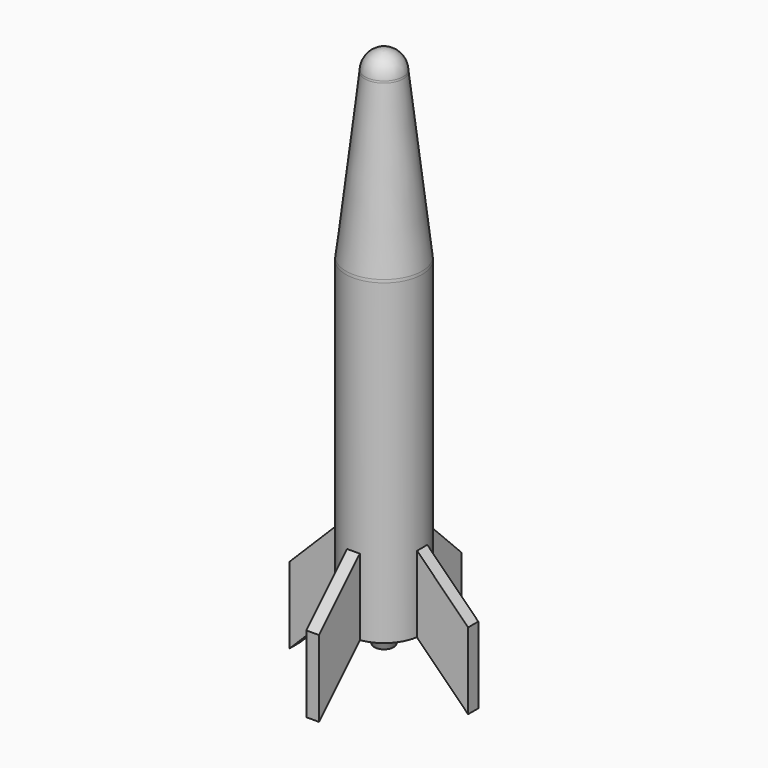
from build123d import *

# Parameters (mm, degrees)
F2_R     = 25.4
F5_DEPTH = 6.35
F6_R     = 9.525
F7_DEPTH = 25.4
F9_DEPTH = 6.35


with BuildPart() as f1:
    # F0 (on Front) → F1 (revolve)
    with BuildSketch(Plane.XZ):
        Polygon((-38.1, 0), (0, 0), (0, 330.2), (-19.05, 330.2), (-38.1, 165.1), align=None)
        with BuildLine():
            Line((-19.05, 330.2), (0, 330.2))
            Line((0, 330.2), (0, 349.25))
            ThreePointArc((0, 349.25), (-13.470384, 343.670384), (-19.05, 330.2))
        make_face()
    revolve(axis=Axis((0, 0, 165.1), (0, 0, 1)))

    # F2
    f2_edges = [f1.edges().sort_by_distance(p)[0] for p in [
        (19.05, 0, 330.2),
        (38.1, 0, 165.1),
    ]]
    fillet(f2_edges, radius=F2_R)

    # F3 (on Front) → F4 (revolve)
    with BuildSketch(Plane.XZ):
        Polygon((0, 0), (-38.1, 0), (-38.1, -76.2), (-38.1, -152.4), (-19.05, -152.4), (0, -152.4), align=None)
        Polygon((0, -172.826428), (0, -152.4), (-19.05, -152.4), (-9.525, -172.826428), align=None)
    revolve(axis=Axis((0, 0, -86.413214), (0, 0, -1)))

    # F3 (on Front) → F5 (join, symmetric)
    with BuildSketch(Plane.XZ):
        Polygon((88.9, -127), (38.1, -76.2), (38.1, -152.4), (88.9, -203.2), align=None)
        Polygon((-38.1, -152.4), (-38.1, -76.2), (-88.9, -127), (-88.9, -203.2), align=None)
    extrude(amount=F5_DEPTH, both=True)

    # F6 (on face) → F7 (cut)
    with BuildSketch(Plane(origin=(0, 0, -172.826428), x_dir=(1, 0, 0), z_dir=(0, 0, -1))):
        Circle(F6_R)
    extrude(amount=-F7_DEPTH, mode=Mode.SUBTRACT)


with BuildPart() as f9:
    # F8 (on Right) → F9 (new body, symmetric)
    with BuildSketch(Plane.YZ):
        Polygon((-38.1, -152.4), (-38.1, -76.2), (-88.9, -127), (-88.9, -203.2), align=None)
        Polygon((38.1, -76.2), (38.1, -152.4), (88.9, -203.2), (88.9, -127), align=None)
    extrude(amount=F9_DEPTH, both=True)


solid = Compound([f1.part, f9.part])
